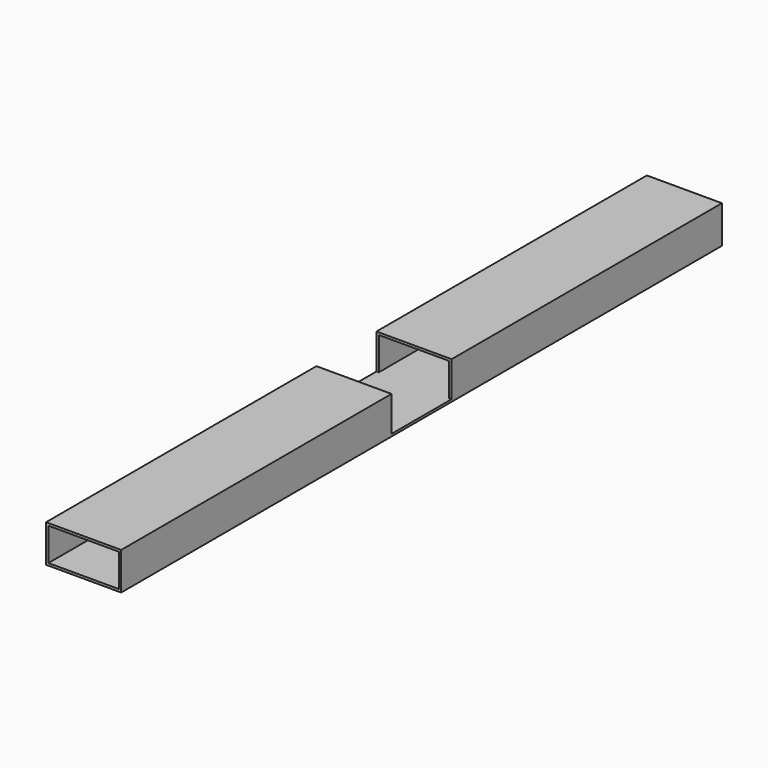
from build123d import *

# Parameters (mm, degrees)
F0_W     = 101.6
F0_H     = 50.8
F0_W_2   = 95.25
F0_H_2   = 44.45
F1_DEPTH = 1016
F2_W     = 101.6
F2_H     = 47.625
F3_DEPTH = 101.601


with BuildPart() as f1:
    # F0 (on Front) → F1 (new body)
    with BuildSketch(Plane.XZ):
        with Locations((50.8, 25.4)):
            Rectangle(F0_W, F0_H)
        with Locations((50.8, 25.4)):
            Rectangle(F0_W_2, F0_H_2, mode=Mode.SUBTRACT)
    extrude(amount=-F1_DEPTH)

    # F2 (on Right) → F3 (cut, through all)
    with BuildSketch(Plane.YZ):
        with Locations((508, 26.9875)):
            Rectangle(F2_W, F2_H)
    extrude(amount=F3_DEPTH, mode=Mode.SUBTRACT)


solid = f1.part
